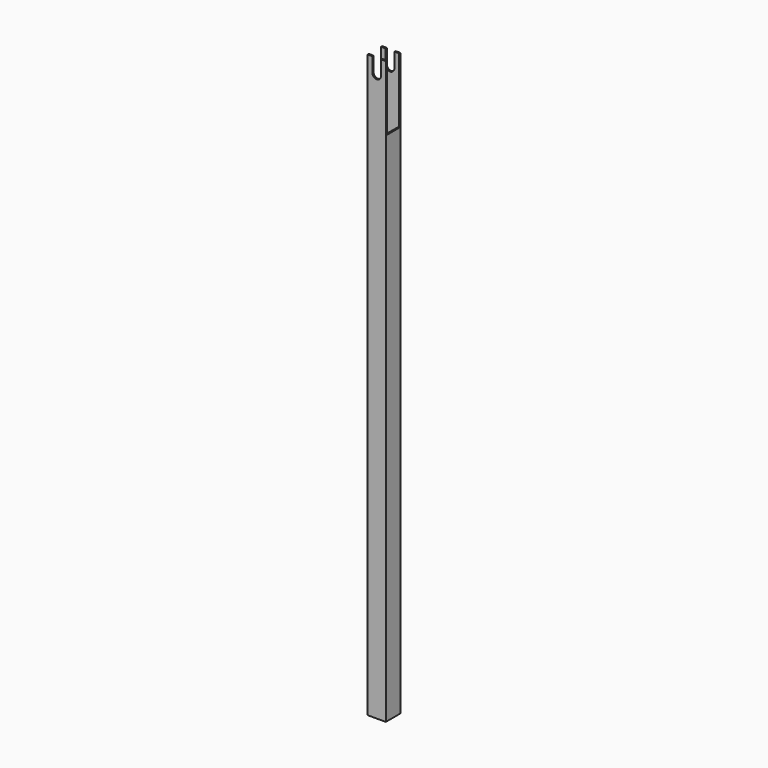
from build123d import *

# Parameters (mm, degrees)
F0_W     = 25
F0_H     = 25
F1_DEPTH = 400
F2_W     = 21
F2_H     = 21
F3_DEPTH = 800.001
F4_W     = 21
F4_H     = 90
F5_DEPTH = 25.001
F7_DEPTH = 25.001


with BuildPart() as f1:
    # F0 (on Top) → F1 (new body, symmetric)
    with BuildSketch(Plane.XY):
        Rectangle(F0_W, F0_H)
    extrude(amount=F1_DEPTH, both=True)

    # F2 (on face) → F3 (cut, through all)
    with BuildSketch(Plane.XY.offset(400)):
        Rectangle(F2_W, F2_H)
    extrude(amount=-F3_DEPTH, mode=Mode.SUBTRACT)

    # F4 (on face) → F5 (cut, through all)
    with BuildSketch(Plane(origin=(-12.5, 0, 0), x_dir=(0, -1, 0), z_dir=(-1, 0, 0))):
        with Locations((0, 355)):
            Rectangle(F4_W, F4_H)
    extrude(amount=-F5_DEPTH, mode=Mode.SUBTRACT)

    # F6 (on face) → F7 (cut, through all)
    with BuildSketch(Plane.XZ.offset(12.5)):
        with BuildLine():
            Line((6, 380), (6, 400))
            Line((6, 400), (-6, 400))
            Line((-6, 400), (-6, 380))
            ThreePointArc((-6, 380), (0, 374), (6, 380))
        make_face()
    extrude(amount=-F7_DEPTH, mode=Mode.SUBTRACT)


solid = f1.part
